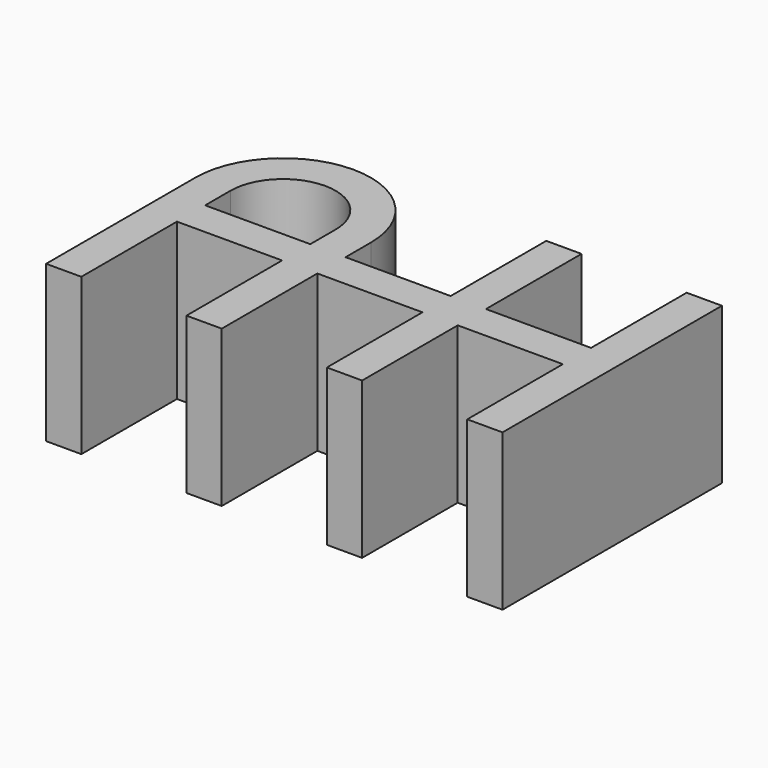
from build123d import *

# Parameters (mm, degrees)
F1_DEPTH = 25


with BuildPart() as f1:
    # F0 (on Top) → F1 (new body)
    with BuildSketch(Plane.XY):
        with BuildLine():
            Line((0, 19.129579), (0, 0))
            Line((0, 0), (5.646541, 0))
            Line((5.646541, 0), (5.646541, 19.129579))
            Line((5.646541, 19.129579), (22.474974, 19.129579))
            Line((22.474974, 19.129579), (22.474974, 0))
            Line((22.474974, 0), (28.121515, 0))
            Line((28.121515, 0), (28.121515, 19.129579))
            Line((28.121515, 19.129579), (44.949948, 19.129579))
            Line((44.949948, 19.129579), (44.949948, 0))
            Line((44.949948, 0), (50.596489, 0))
            Line((50.596489, 0), (50.596489, 43.9057))
            Line((50.596489, 43.9057), (44.949948, 43.9057))
            Line((44.949948, 43.9057), (44.949948, 24.776121))
            Line((44.949948, 24.776121), (28.121515, 24.776121))
            Line((28.121515, 24.776121), (28.121515, 43.9057))
            Line((28.121515, 43.9057), (22.474974, 43.9057))
            Line((22.474974, 43.9057), (22.474974, 24.776121))
            Line((22.474974, 24.776121), (5.646541, 24.776121))
            Line((5.646541, 24.776121), (5.646541, 29.844942))
            ThreePointArc((5.646541, 29.844942), (-8.414216, 43.9057), (-22.474974, 29.844942))
            Line((-22.474974, 29.844942), (-22.474974, 0))
            Line((-22.474974, 0), (-16.828433, 0))
            Line((-16.828433, 0), (-16.828433, 19.129579))
            Line((-16.828433, 19.129579), (0, 19.129579))
        make_face()
        with BuildLine():
            Line((0, 29.844942), (0, 24.776121))
            Line((0, 24.776121), (-16.828433, 24.776121))
            Line((-16.828433, 24.776121), (-16.828433, 29.844942))
            ThreePointArc((-16.828433, 29.844942), (-8.414216, 38.259159), (0, 29.844942))
        make_face(mode=Mode.SUBTRACT)
    extrude(amount=F1_DEPTH)


solid = f1.part
